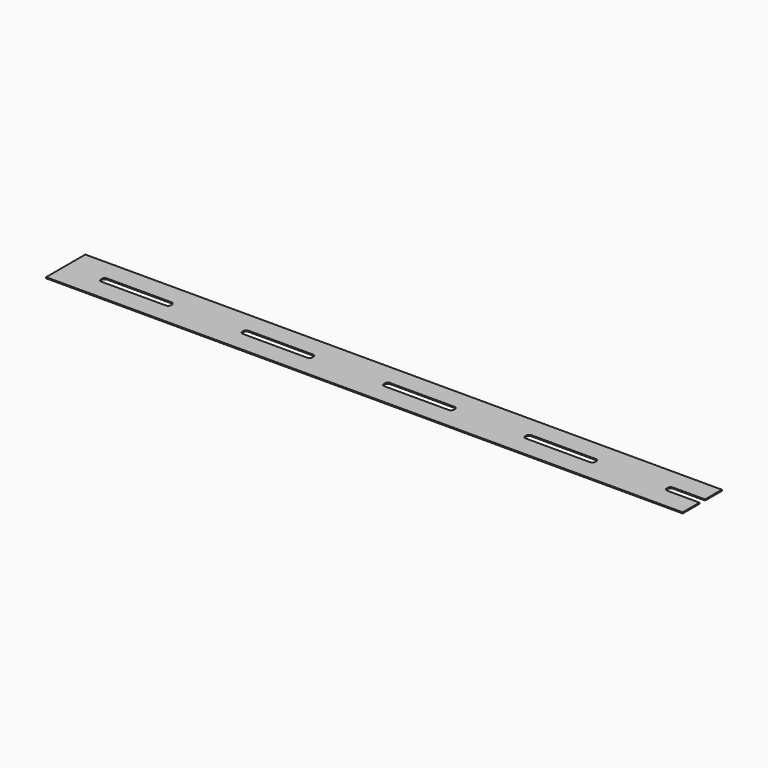
from build123d import *

# Parameters (mm, degrees)
F1_DEPTH = 0.15


with BuildPart() as f1:
    # F0 (on Top) → F1 (new body)
    with BuildSketch(Plane.XY):
        with BuildLine():
            Line((70.7, -0.5), (70.7, -3.5))
            Line((70.7, -3.5), (80.8, -3.5))
            Line((80.8, -3.5), (90.9, -3.5))
            Line((90.9, -3.5), (90.9, -0.5))
            Line((90.9, -0.5), (86.3, -0.5))
            ThreePointArc((86.3, -0.5), (86.017157, -0.382843), (85.9, -0.1))
            Line((85.9, -0.1), (85.9, 0.1))
            ThreePointArc((85.9, 0.1), (86.017157, 0.382843), (86.3, 0.5))
            Line((86.3, 0.5), (90.9, 0.5))
            Line((90.9, 0.5), (90.9, 3.5))
            Line((90.9, 3.5), (80.8, 3.5))
            Line((80.8, 3.5), (70.7, 3.5))
            Line((70.7, 3.5), (70.7, 0.5))
            Line((70.7, 0.5), (75.3, 0.5))
            ThreePointArc((75.3, 0.5), (75.582843, 0.382843), (75.7, 0.1))
            Line((75.7, 0.1), (75.7, -0.1))
            ThreePointArc((75.7, -0.1), (75.582843, -0.382843), (75.3, -0.5))
            Line((75.3, -0.5), (70.7, -0.5))
        make_face()
        with BuildLine():
            Line((10.1, -0.5), (10.1, -3.5))
            Line((10.1, -3.5), (20.2, -3.5))
            Line((20.2, -3.5), (30.3, -3.5))
            Line((30.3, -3.5), (30.3, -0.5))
            Line((30.3, -0.5), (25.7, -0.5))
            ThreePointArc((25.7, -0.5), (25.417157, -0.382843), (25.3, -0.1))
            Line((25.3, -0.1), (25.3, 0.1))
            ThreePointArc((25.3, 0.1), (25.417157, 0.382843), (25.7, 0.5))
            Line((25.7, 0.5), (30.3, 0.5))
            Line((30.3, 0.5), (30.3, 3.5))
            Line((30.3, 3.5), (20.2, 3.5))
            Line((20.2, 3.5), (10.1, 3.5))
            Line((10.1, 3.5), (10.1, 0.5))
            Line((10.1, 0.5), (14.7, 0.5))
            ThreePointArc((14.7, 0.5), (14.982843, 0.382843), (15.1, 0.1))
            Line((15.1, 0.1), (15.1, -0.1))
            ThreePointArc((15.1, -0.1), (14.982843, -0.382843), (14.7, -0.5))
            Line((14.7, -0.5), (10.1, -0.5))
        make_face()
        with BuildLine():
            Line((30.3, -0.5), (30.3, -3.5))
            Line((30.3, -3.5), (40.4, -3.5))
            Line((40.4, -3.5), (50.5, -3.5))
            Line((50.5, -3.5), (50.5, -0.5))
            Line((50.5, -0.5), (45.9, -0.5))
            ThreePointArc((45.9, -0.5), (45.617157, -0.382843), (45.5, -0.1))
            Line((45.5, -0.1), (45.5, 0.1))
            ThreePointArc((45.5, 0.1), (45.617157, 0.382843), (45.9, 0.5))
            Line((45.9, 0.5), (50.5, 0.5))
            Line((50.5, 0.5), (50.5, 3.5))
            Line((50.5, 3.5), (40.4, 3.5))
            Line((40.4, 3.5), (30.3, 3.5))
            Line((30.3, 3.5), (30.3, 0.5))
            Line((30.3, 0.5), (34.9, 0.5))
            ThreePointArc((34.9, 0.5), (35.182843, 0.382843), (35.3, 0.1))
            Line((35.3, 0.1), (35.3, -0.1))
            ThreePointArc((35.3, -0.1), (35.182843, -0.382843), (34.9, -0.5))
            Line((34.9, -0.5), (30.3, -0.5))
        make_face()
        with BuildLine():
            Line((50.5, -0.5), (50.5, -3.5))
            Line((50.5, -3.5), (60.6, -3.5))
            Line((60.6, -3.5), (70.7, -3.5))
            Line((70.7, -3.5), (70.7, -0.5))
            Line((70.7, -0.5), (66.1, -0.5))
            ThreePointArc((66.1, -0.5), (65.817157, -0.382843), (65.7, -0.1))
            Line((65.7, -0.1), (65.7, 0.1))
            ThreePointArc((65.7, 0.1), (65.817157, 0.382843), (66.1, 0.5))
            Line((66.1, 0.5), (70.7, 0.5))
            Line((70.7, 0.5), (70.7, 3.5))
            Line((70.7, 3.5), (60.6, 3.5))
            Line((60.6, 3.5), (50.5, 3.5))
            Line((50.5, 3.5), (50.5, 0.5))
            Line((50.5, 0.5), (55.1, 0.5))
            ThreePointArc((55.1, 0.5), (55.382843, 0.382843), (55.5, 0.1))
            Line((55.5, 0.1), (55.5, -0.1))
            ThreePointArc((55.5, -0.1), (55.382843, -0.382843), (55.1, -0.5))
            Line((55.1, -0.5), (50.5, -0.5))
        make_face()
        with BuildLine():
            Line((0, 3.5), (0, -3.5))
            Line((0, -3.5), (10.1, -3.5))
            Line((10.1, -3.5), (10.1, -0.5))
            Line((10.1, -0.5), (5.5, -0.5))
            ThreePointArc((5.5, -0.5), (5.217157, -0.382843), (5.1, -0.1))
            Line((5.1, -0.1), (5.1, 0.1))
            ThreePointArc((5.1, 0.1), (5.217157, 0.382843), (5.5, 0.5))
            Line((5.5, 0.5), (10.1, 0.5))
            Line((10.1, 0.5), (10.1, 3.5))
            Line((10.1, 3.5), (0, 3.5))
        make_face()
    extrude(amount=F1_DEPTH)


solid = f1.part
